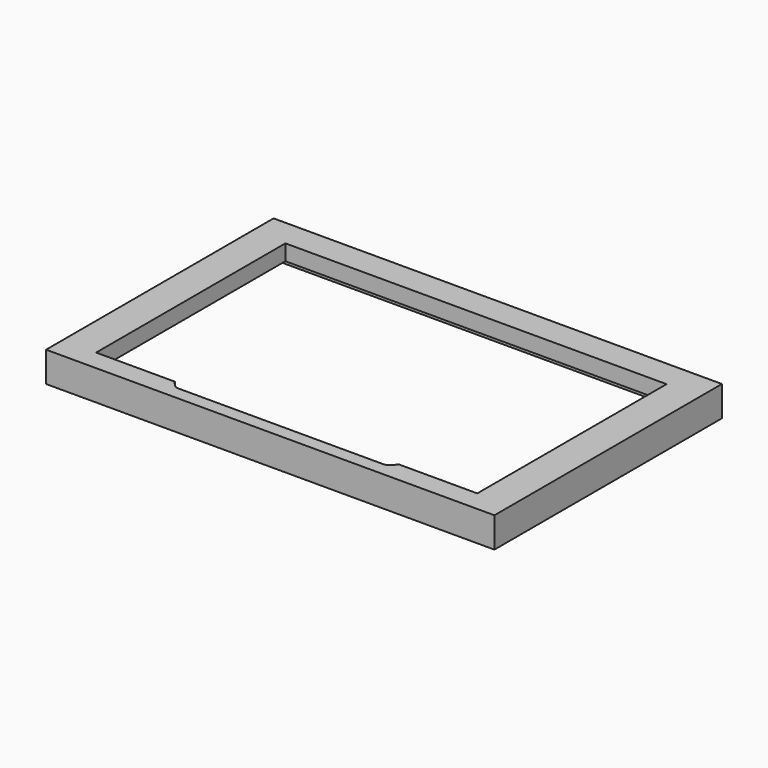
from build123d import *

# Parameters (mm, degrees)
SKETCH_W        = 74.1
SKETCH_H        = 47
PAD_DEPTH       = 5
SKETCH001_W     = 71.7
SKETCH001_H     = 44
POCKET_DEPTH    = 2.4
POCKET001_DEPTH = 5
SKETCH004_W     = 2.5
SKETCH004_H     = 19
POCKET002_DEPTH = 2.4
CHAMFER_SIZE    = 1.1
CHAMFER001_SIZE = 1.1
FILLET_R        = 1
FILLET001_R     = 1


with BuildPart() as part:
    # Sketch → Pad (new body)
    with BuildSketch(Plane.XY):
        Rectangle(SKETCH_W, SKETCH_H)
    extrude(amount=PAD_DEPTH)

    # Sketch001 (on Face5 of Pad) → Pocket (cut)
    with BuildSketch(Plane(origin=(0, 0, 0), x_dir=(1, 0, 0), z_dir=(0, 0, -1))):
        Rectangle(SKETCH001_W, SKETCH001_H)
    extrude(amount=-POCKET_DEPTH, mode=Mode.SUBTRACT)

    # Sketch002 (on Face5 of Pocket) → Pocket001 (cut)
    with BuildSketch(Plane.XY.offset(5)):
        Polygon((-31.5, 19), (31.5, 19), (31.5, -20.1), (18.5, -20.1), (18.5, -21.3), (-18.5, -21.3), (-18.5, -20.1), (-31.5, -20.1), align=None)
    extrude(amount=-POCKET001_DEPTH, mode=Mode.SUBTRACT)

    # Sketch004 (on Face19 of Pocket001) → Pocket002 (cut)
    with BuildSketch(Plane(origin=(0, 0, 2.4), x_dir=(1, 0, 0), z_dir=(0, 0, -1))):
        with Locations((-34.6, 0)):
            Rectangle(SKETCH004_W, SKETCH004_H)
    extrude(amount=-POCKET002_DEPTH, mode=Mode.SUBTRACT)

    # Chamfer
    chamfer_edges = [part.edges().sort_by_distance(p)[0] for p in [
        (-18.5, -21.3, 3.7),
    ]]
    chamfer(chamfer_edges, length=CHAMFER_SIZE)

    # Chamfer001
    chamfer001_edges = [part.edges().sort_by_distance(p)[0] for p in [
        (18.5, -21.3, 3.7),
    ]]
    chamfer(chamfer001_edges, length=CHAMFER001_SIZE)

    # Fillet
    fillet_edges = [part.edges().sort_by_distance(p)[0] for p in [
        (17.4, -21.3, 3.7),
    ]]
    fillet(fillet_edges, radius=FILLET_R)

    # Fillet001
    fillet001_edges = [part.edges().sort_by_distance(p)[0] for p in [
        (-17.4, -21.3, 3.7),
    ]]
    fillet(fillet001_edges, radius=FILLET001_R)


solid = part.part
